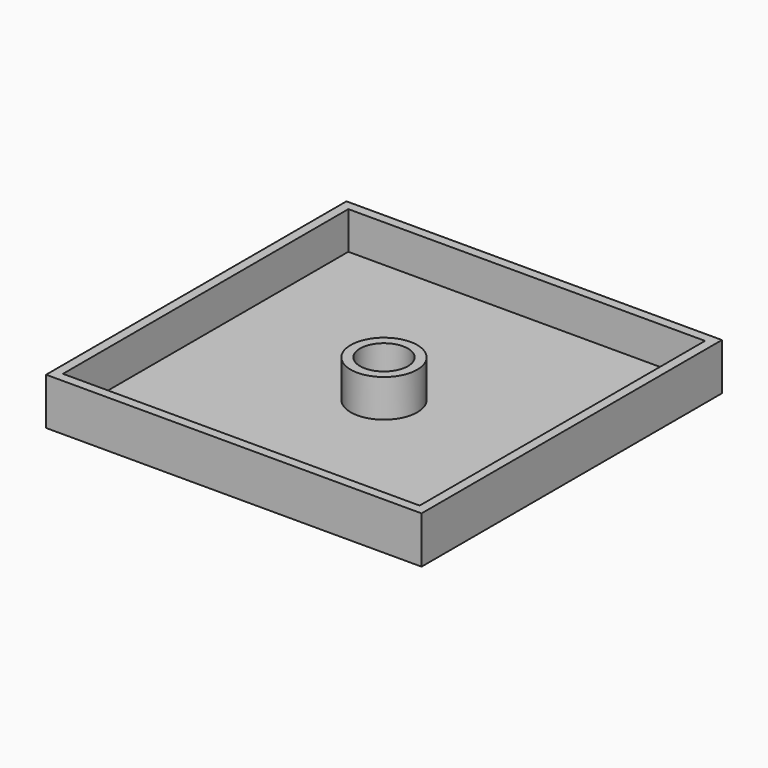
from build123d import *

# Parameters (mm, degrees)
F0_W     = 101.6
F0_H     = 101.6
F0_R     = 6.477
F1_DEPTH = 12.7
F2_T     = -2.54


with BuildPart() as f1:
    # F0 (on Top) → F1 (new body)
    with BuildSketch(Plane.XY):
        with Locations((0.083563, 18.284834)):
            Rectangle(F0_W, F0_H)
        with Locations((0.083563, 18.284834)):
            Circle(F0_R, mode=Mode.SUBTRACT)
    extrude(amount=F1_DEPTH)

    # F2
    f2_openings = [f1.faces().sort_by_distance(p)[0] for p in [
        (49.446723, 18.284834, 12.7),
    ]]
    offset(amount=F2_T, openings=f2_openings)


solid = f1.part
